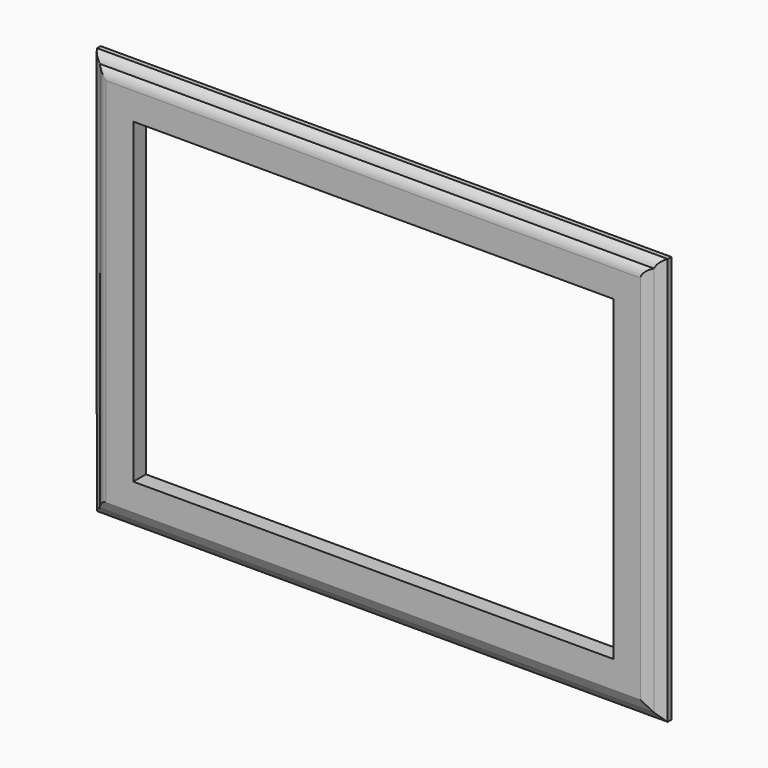
from build123d import *

# Parameters (mm, degrees)
F0_W          = 400.05
F0_H          = 285.75
F0_W_2        = 336.55
F0_H_2        = 222.25
F1_DEPTH      = 5.55625
F3_DEPTH      = 142.876
F3_DEPTH_BACK = 142.876
F5_DEPTH      = 200.026
F5_DEPTH_BACK = 200.026


with BuildPart() as f1:
    # F0 (on Front) → F1 (new body, symmetric)
    with BuildSketch(Plane.XZ):
        Rectangle(F0_W, F0_H)
        Rectangle(F0_W_2, F0_H_2, mode=Mode.SUBTRACT)
    extrude(amount=F1_DEPTH, both=True)

    # F2 (on Top) → F3 (cut, two sides)
    with BuildSketch(Plane.XY) as f3_sk:
        with BuildLine():
            ThreePointArc((-187.325, -5.55625), (-191.0729853256, -4.6678735007), (-194.1626797348, -2.3677875757))
            ThreePointArc((-194.1626797348, -2.3677875757), (-197.5840837344, -0.5984369952), (-200.025, 2.38125))
            Line((-200.025, 2.38125), (-200.025, -5.55625))
            Line((-200.025, -5.55625), (-187.325, -5.55625))
        make_face()
        with BuildLine():
            Line((194.1626797348, -2.3677875757), (187.325, -5.55625))
            ThreePointArc((187.325, -5.55625), (191.0729853256, -4.6678735007), (194.1626797348, -2.3677875757))
        make_face()
        with BuildLine():
            ThreePointArc((194.1626797348, -2.3677875757), (191.0729853256, -4.6678735007), (187.325, -5.55625))
            Line((187.325, -5.55625), (200.025, -5.55625))
            Line((200.025, -5.55625), (200.025, 2.38125))
            ThreePointArc((200.025, 2.38125), (197.5840837344, -0.5984369952), (194.1626797348, -2.3677875757))
        make_face()
        with BuildLine():
            Line((200.025, 2.38125), (194.1626797348, -2.3677875757))
            ThreePointArc((194.1626797348, -2.3677875757), (197.5840837344, -0.5984369952), (200.025, 2.38125))
        make_face()
    extrude(amount=-F3_DEPTH, mode=Mode.SUBTRACT)
    extrude(f3_sk.sketch, amount=F3_DEPTH_BACK, mode=Mode.SUBTRACT)

    # F4 (on Right) → F5 (cut, two sides)
    with BuildSketch(Plane.YZ) as f5_sk:
        with BuildLine():
            Line((-5.55625, 142.875), (-5.55625, 130.175))
            ThreePointArc((-5.55625, 130.175), (-4.6678735007, 133.9229853256), (-2.3677875757, 137.0126797348))
            ThreePointArc((-2.3677875757, 137.0126797348), (-0.5984369952, 140.4340837344), (2.38125, 142.875))
            Line((2.38125, 142.875), (-5.55625, 142.875))
        make_face()
        with BuildLine():
            ThreePointArc((-2.3677875757, -137.0126797348), (-4.6678735007, -133.9229853256), (-5.55625, -130.175))
            Line((-5.55625, -130.175), (-5.55625, -142.875))
            Line((-5.55625, -142.875), (2.38125, -142.875))
            ThreePointArc((2.38125, -142.875), (-0.5984369952, -140.4340837344), (-2.3677875757, -137.0126797348))
        make_face()
        with BuildLine():
            Line((-2.3677875757, -137.0126797348), (-5.55625, -130.175))
            ThreePointArc((-5.55625, -130.175), (-4.6678735007, -133.9229853256), (-2.3677875757, -137.0126797348))
        make_face()
        with BuildLine():
            Line((2.38125, -142.875), (-2.3677875757, -137.0126797348))
            ThreePointArc((-2.3677875757, -137.0126797348), (-0.5984369952, -140.4340837344), (2.38125, -142.875))
        make_face()
    extrude(amount=-F5_DEPTH, mode=Mode.SUBTRACT)
    extrude(f5_sk.sketch, amount=F5_DEPTH_BACK, mode=Mode.SUBTRACT)


solid = f1.part
